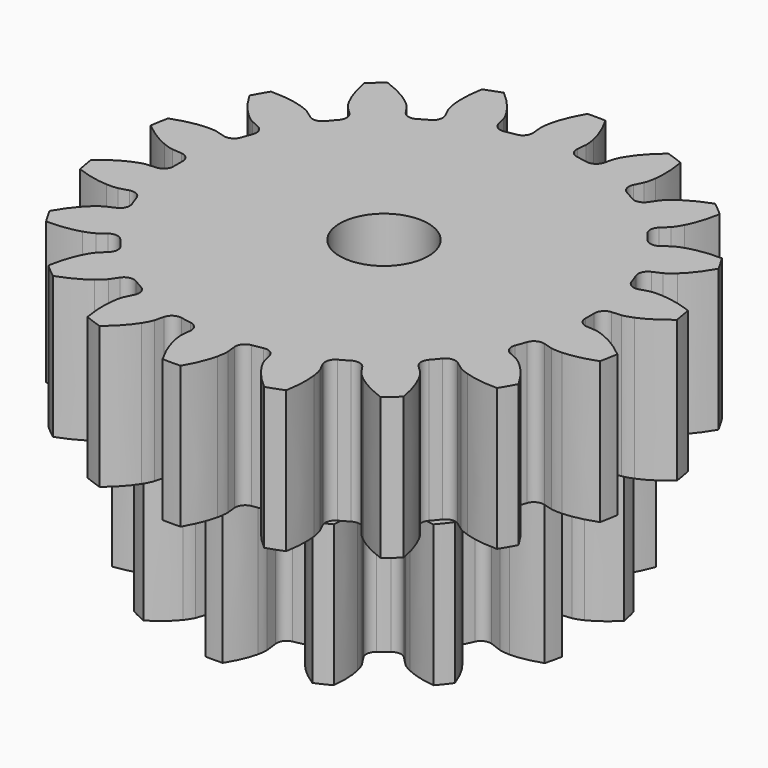
from build123d import *

# Parameters (mm, degrees)
PAD039_DEPTH            = 8
PAD040_DEPTH            = 8
SKETCH085_R             = 2.5
POCKET012_DEPTH         = 16.001
BODY019_PLACEMENT_ANGLE = 90


with BuildPart() as part:
    # Sketch083 → Pad039 (new body)
    with BuildSketch(Plane.XY):
        with BuildLine():
            Line((12.111023, -1.241717), (12.645761, -1.295402))
            add(Edge.make_bspline(
                [(12.645761, -1.295402), (12.714302, -1.298033), (12.920518, -1.29727), (13.264938, -1.221824)],
                knots=[0, 0, 0, 0, 1, 1, 1, 1], degree=3))
            add(Edge.make_bspline(
                [(13.264938, -1.221824), (13.676607, -1.130119), (14.26795, -0.932555), (14.993012, -0.510488)],
                knots=[0, 0, 0, 0, 1, 1, 1, 1], degree=3))
            ThreePointArc((14.993012, -0.510488), (15.001701, 0), (14.993012, 0.510488))
            add(Edge.make_bspline(
                [(14.993012, 0.510488), (14.26795, 0.932555), (13.676607, 1.130119), (13.264938, 1.221824)],
                knots=[0, 0, 0, 0, 1, 1, 1, 1], degree=3))
            add(Edge.make_bspline(
                [(13.264938, 1.221824), (12.920518, 1.29727), (12.714302, 1.298033), (12.645761, 1.295402)],
                knots=[0, 0, 0, 0, 1, 1, 1, 1], degree=3))
            Line((12.645761, 1.295402), (12.111023, 1.241717))
            ThreePointArc((12.111023, 1.241717), (11.708936, 1.356787), (11.497414, 1.717583))
            ThreePointArc((11.497414, 1.717583), (11.44839, 2.01866), (11.391483, 2.318347))
            ThreePointArc((11.391483, 2.318347), (11.46685, 2.729729), (11.805332, 2.975381))
            Line((11.805332, 2.975381), (12.326182, 3.107825))
            add(Edge.make_bspline(
                [(12.326182, 3.107825), (12.391489, 3.128796), (12.585008, 3.200042), (12.882853, 3.388737)],
                knots=[0, 0, 0, 0, 1, 1, 1, 1], degree=3))
            add(Edge.make_bspline(
                [(12.882853, 3.388737), (13.238331, 3.615711), (13.72644, 4.003611), (14.26342, 4.64821)],
                knots=[0, 0, 0, 0, 1, 1, 1, 1], degree=3))
            ThreePointArc((14.26342, 4.64821), (14.096988, 5.130884), (13.914226, 5.607614))
            add(Edge.make_bspline(
                [(13.914226, 5.607614), (13.088535, 5.756242), (12.465284, 5.73964), (12.047076, 5.685015)],
                knots=[0, 0, 0, 0, 1, 1, 1, 1], degree=3))
            add(Edge.make_bspline(
                [(12.047076, 5.685015), (11.697623, 5.638113), (11.503582, 5.568299), (11.440074, 5.542385)],
                knots=[0, 0, 0, 0, 1, 1, 1, 1], degree=3))
            Line((11.440074, 5.542385), (10.955947, 5.309046))
            ThreePointArc((10.955947, 5.309046), (10.538753, 5.279655), (10.216587, 5.546347))
            ThreePointArc((10.216587, 5.546347), (10.067545, 5.8125), (9.911571, 6.074651))
            ThreePointArc((9.911571, 6.074651), (9.841692, 6.487), (10.075743, 6.833605))
            Line((10.075743, 6.833605), (10.519883, 7.136202))
            add(Edge.make_bspline(
                [(10.519883, 7.136202), (10.57408, 7.178245), (10.73156, 7.311383), (10.946905, 7.590566)],
                knots=[0, 0, 0, 0, 1, 1, 1, 1], degree=3))
            add(Edge.make_bspline(
                [(10.946905, 7.590566), (11.203316, 7.925433), (11.529319, 8.456883), (11.813449, 9.246266)],
                knots=[0, 0, 0, 0, 1, 1, 1, 1], degree=3))
            ThreePointArc((11.813449, 9.246266), (11.49197, 9.642908), (11.157178, 10.028379))
            add(Edge.make_bspline(
                [(11.157178, 10.028379), (10.330449, 9.885641), (9.750463, 9.656875), (9.376159, 9.462509)],
                knots=[0, 0, 0, 0, 1, 1, 1, 1], degree=3))
            add(Edge.make_bspline(
                [(9.376159, 9.462509), (9.063822, 9.298916), (8.905361, 9.166947), (8.854546, 9.120874)],
                knots=[0, 0, 0, 0, 1, 1, 1, 1], degree=3))
            Line((8.854546, 9.120874), (8.479422, 8.736026))
            ThreePointArc((8.479422, 8.736026), (8.09744, 8.565718), (7.703489, 8.70614))
            ThreePointArc((7.703489, 8.70614), (7.472406, 8.905267), (7.236177, 9.098261))
            ThreePointArc((7.236177, 9.098261), (7.02948, 9.461843), (7.13087, 9.867595))
            Line((7.13087, 9.867595), (7.444732, 10.303849))
            add(Edge.make_bspline(
                [(7.444732, 10.303849), (7.48128, 10.361892), (7.583728, 10.540862), (7.690599, 10.876861)],
                knots=[0, 0, 0, 0, 1, 1, 1, 1], degree=3))
            add(Edge.make_bspline(
                [(7.690599, 10.876861), (7.817015, 11.27923), (7.941592, 11.89013), (7.938602, 12.729085)],
                knots=[0, 0, 0, 0, 1, 1, 1, 1], degree=3))
            ThreePointArc((7.938602, 12.729085), (7.500851, 12.991854), (7.05441, 13.239573))
            add(Edge.make_bspline(
                [(7.05441, 13.239573), (6.326359, 12.822685), (5.859592, 12.409349), (5.574338, 12.098685)],
                knots=[0, 0, 0, 0, 1, 1, 1, 1], degree=3))
            add(Edge.make_bspline(
                [(5.574338, 12.098685), (5.33679, 11.838132), (5.233022, 11.659925), (5.201029, 11.599251)],
                knots=[0, 0, 0, 0, 1, 1, 1, 1], degree=3))
            Line((5.201029, 11.599251), (4.980153, 11.109313))
            ThreePointArc((4.980153, 11.109313), (4.679456, 10.81863), (4.261237, 10.815844))
            ThreePointArc((4.261237, 10.815844), (3.975984, 10.923927), (3.687994, 11.024488))
            ThreePointArc((3.687994, 11.024488), (3.36941, 11.295448), (3.32591, 11.711408))
            Line((3.32591, 11.711408), (3.471636, 12.228699))
            add(Edge.make_bspline(
                [(3.471636, 12.228699), (3.486128, 12.295742), (3.521186, 12.498958), (3.506694, 12.851246)],
                knots=[0, 0, 0, 0, 1, 1, 1, 1], degree=3))
            add(Edge.make_bspline(
                [(3.506694, 12.851246), (3.487868, 13.272586), (3.395991, 13.889252), (3.106242, 14.676589)],
                knots=[0, 0, 0, 0, 1, 1, 1, 1], degree=3))
            ThreePointArc((3.106242, 14.676589), (2.605018, 14.773792), (2.100777, 14.85388))
            add(Edge.make_bspline(
                [(2.100777, 14.85388), (1.559216, 14.213125), (1.261968, 13.665072), (1.100171, 13.275581)],
                knots=[0, 0, 0, 0, 1, 1, 1, 1], degree=3))
            add(Edge.make_bspline(
                [(1.100171, 13.275581), (0.966063, 12.949495), (0.929503, 12.746544), (0.920191, 12.678587)],
                knots=[0, 0, 0, 0, 1, 1, 1, 1], degree=3))
            Line((0.920191, 12.678587), (0.880204, 12.142652))
            ThreePointArc((0.880204, 12.142652), (0.697061, 11.766655), (0.305016, 11.620998))
            ThreePointArc((0.305016, 11.620998), (0, 11.625), (-0.305016, 11.620998))
            ThreePointArc((-0.305016, 11.620998), (-0.697061, 11.766655), (-0.880204, 12.142652))
            Line((-0.880204, 12.142652), (-0.920191, 12.678587))
            add(Edge.make_bspline(
                [(-0.920191, 12.678587), (-0.929503, 12.746544), (-0.966063, 12.949495), (-1.100171, 13.275581)],
                knots=[0, 0, 0, 0, 1, 1, 1, 1], degree=3))
            add(Edge.make_bspline(
                [(-1.100171, 13.275581), (-1.261968, 13.665072), (-1.559216, 14.213125), (-2.100777, 14.85388)],
                knots=[0, 0, 0, 0, 1, 1, 1, 1], degree=3))
            ThreePointArc((-2.100777, 14.85388), (-2.605018, 14.773792), (-3.106242, 14.676589))
            add(Edge.make_bspline(
                [(-3.106242, 14.676589), (-3.395991, 13.889252), (-3.487868, 13.272586), (-3.506694, 12.851246)],
                knots=[0, 0, 0, 0, 1, 1, 1, 1], degree=3))
            add(Edge.make_bspline(
                [(-3.506694, 12.851246), (-3.521186, 12.498958), (-3.486128, 12.295742), (-3.471636, 12.228699)],
                knots=[0, 0, 0, 0, 1, 1, 1, 1], degree=3))
            Line((-3.471636, 12.228699), (-3.32591, 11.711408))
            ThreePointArc((-3.32591, 11.711408), (-3.36941, 11.295448), (-3.687994, 11.024488))
            ThreePointArc((-3.687994, 11.024488), (-3.975984, 10.923927), (-4.261237, 10.815844))
            ThreePointArc((-4.261237, 10.815844), (-4.679456, 10.81863), (-4.980153, 11.109313))
            Line((-4.980153, 11.109313), (-5.201029, 11.599251))
            add(Edge.make_bspline(
                [(-5.201029, 11.599251), (-5.233022, 11.659925), (-5.33679, 11.838132), (-5.574338, 12.098685)],
                knots=[0, 0, 0, 0, 1, 1, 1, 1], degree=3))
            add(Edge.make_bspline(
                [(-5.574338, 12.098685), (-5.859592, 12.409349), (-6.326359, 12.822685), (-7.05441, 13.239573)],
                knots=[0, 0, 0, 0, 1, 1, 1, 1], degree=3))
            ThreePointArc((-7.05441, 13.239573), (-7.500851, 12.991854), (-7.938602, 12.729085))
            add(Edge.make_bspline(
                [(-7.938602, 12.729085), (-7.941592, 11.89013), (-7.817015, 11.27923), (-7.690599, 10.876861)],
                knots=[0, 0, 0, 0, 1, 1, 1, 1], degree=3))
            add(Edge.make_bspline(
                [(-7.690599, 10.876861), (-7.583728, 10.540862), (-7.48128, 10.361892), (-7.444732, 10.303849)],
                knots=[0, 0, 0, 0, 1, 1, 1, 1], degree=3))
            Line((-7.444732, 10.303849), (-7.13087, 9.867595))
            ThreePointArc((-7.13087, 9.867595), (-7.02948, 9.461843), (-7.236177, 9.098261))
            ThreePointArc((-7.236177, 9.098261), (-7.472406, 8.905267), (-7.703489, 8.70614))
            ThreePointArc((-7.703489, 8.70614), (-8.09744, 8.565718), (-8.479422, 8.736026))
            Line((-8.479422, 8.736026), (-8.854546, 9.120874))
            add(Edge.make_bspline(
                [(-8.854546, 9.120874), (-8.905361, 9.166947), (-9.063822, 9.298916), (-9.376159, 9.462509)],
                knots=[0, 0, 0, 0, 1, 1, 1, 1], degree=3))
            add(Edge.make_bspline(
                [(-9.376159, 9.462509), (-9.750463, 9.656875), (-10.330449, 9.885641), (-11.157178, 10.028379)],
                knots=[0, 0, 0, 0, 1, 1, 1, 1], degree=3))
            ThreePointArc((-11.157178, 10.028379), (-11.49197, 9.642908), (-11.813449, 9.246266))
            add(Edge.make_bspline(
                [(-11.813449, 9.246266), (-11.529319, 8.456883), (-11.203316, 7.925433), (-10.946905, 7.590566)],
                knots=[0, 0, 0, 0, 1, 1, 1, 1], degree=3))
            add(Edge.make_bspline(
                [(-10.946905, 7.590566), (-10.73156, 7.311383), (-10.57408, 7.178245), (-10.519883, 7.136202)],
                knots=[0, 0, 0, 0, 1, 1, 1, 1], degree=3))
            Line((-10.519883, 7.136202), (-10.075743, 6.833605))
            ThreePointArc((-10.075743, 6.833605), (-9.841692, 6.487), (-9.911571, 6.074651))
            ThreePointArc((-9.911571, 6.074651), (-10.067545, 5.8125), (-10.216587, 5.546347))
            ThreePointArc((-10.216587, 5.546347), (-10.538753, 5.279655), (-10.955947, 5.309046))
            Line((-10.955947, 5.309046), (-11.440074, 5.542385))
            add(Edge.make_bspline(
                [(-11.440074, 5.542385), (-11.503582, 5.568299), (-11.697623, 5.638113), (-12.047076, 5.685015)],
                knots=[0, 0, 0, 0, 1, 1, 1, 1], degree=3))
            add(Edge.make_bspline(
                [(-12.047076, 5.685015), (-12.465284, 5.73964), (-13.088535, 5.756242), (-13.914226, 5.607614)],
                knots=[0, 0, 0, 0, 1, 1, 1, 1], degree=3))
            ThreePointArc((-13.914226, 5.607614), (-14.096988, 5.130884), (-14.26342, 4.64821))
            add(Edge.make_bspline(
                [(-14.26342, 4.64821), (-13.72644, 4.003611), (-13.238331, 3.615711), (-12.882853, 3.388737)],
                knots=[0, 0, 0, 0, 1, 1, 1, 1], degree=3))
            add(Edge.make_bspline(
                [(-12.882853, 3.388737), (-12.585008, 3.200042), (-12.391489, 3.128796), (-12.326182, 3.107825)],
                knots=[0, 0, 0, 0, 1, 1, 1, 1], degree=3))
            Line((-12.326182, 3.107825), (-11.805332, 2.975381))
            ThreePointArc((-11.805332, 2.975381), (-11.46685, 2.729729), (-11.391483, 2.318347))
            ThreePointArc((-11.391483, 2.318347), (-11.44839, 2.01866), (-11.497414, 1.717583))
            ThreePointArc((-11.497414, 1.717583), (-11.708936, 1.356787), (-12.111023, 1.241717))
            Line((-12.111023, 1.241717), (-12.645761, 1.295402))
            add(Edge.make_bspline(
                [(-12.645761, 1.295402), (-12.714302, 1.298033), (-12.920518, 1.29727), (-13.264938, 1.221824)],
                knots=[0, 0, 0, 0, 1, 1, 1, 1], degree=3))
            add(Edge.make_bspline(
                [(-13.264938, 1.221824), (-13.676607, 1.130119), (-14.26795, 0.932555), (-14.993012, 0.510488)],
                knots=[0, 0, 0, 0, 1, 1, 1, 1], degree=3))
            ThreePointArc((-14.993012, 0.510488), (-15.001701, 0), (-14.993012, -0.510488))
            add(Edge.make_bspline(
                [(-14.993012, -0.510488), (-14.26795, -0.932555), (-13.676607, -1.130119), (-13.264938, -1.221824)],
                knots=[0, 0, 0, 0, 1, 1, 1, 1], degree=3))
            add(Edge.make_bspline(
                [(-13.264938, -1.221824), (-12.920518, -1.29727), (-12.714302, -1.298033), (-12.645761, -1.295402)],
                knots=[0, 0, 0, 0, 1, 1, 1, 1], degree=3))
            Line((-12.645761, -1.295402), (-12.111023, -1.241717))
            ThreePointArc((-12.111023, -1.241717), (-11.708936, -1.356787), (-11.497414, -1.717583))
            ThreePointArc((-11.497414, -1.717583), (-11.44839, -2.01866), (-11.391483, -2.318347))
            ThreePointArc((-11.391483, -2.318347), (-11.46685, -2.729729), (-11.805332, -2.975381))
            Line((-11.805332, -2.975381), (-12.326182, -3.107825))
            add(Edge.make_bspline(
                [(-12.326182, -3.107825), (-12.391489, -3.128796), (-12.585008, -3.200042), (-12.882853, -3.388737)],
                knots=[0, 0, 0, 0, 1, 1, 1, 1], degree=3))
            add(Edge.make_bspline(
                [(-12.882853, -3.388737), (-13.238331, -3.615711), (-13.72644, -4.003611), (-14.26342, -4.64821)],
                knots=[0, 0, 0, 0, 1, 1, 1, 1], degree=3))
            ThreePointArc((-14.26342, -4.64821), (-14.096988, -5.130884), (-13.914226, -5.607614))
            add(Edge.make_bspline(
                [(-13.914226, -5.607614), (-13.088535, -5.756242), (-12.465284, -5.73964), (-12.047076, -5.685015)],
                knots=[0, 0, 0, 0, 1, 1, 1, 1], degree=3))
            add(Edge.make_bspline(
                [(-12.047076, -5.685015), (-11.697623, -5.638113), (-11.503582, -5.568299), (-11.440074, -5.542385)],
                knots=[0, 0, 0, 0, 1, 1, 1, 1], degree=3))
            Line((-11.440074, -5.542385), (-10.955947, -5.309046))
            ThreePointArc((-10.955947, -5.309046), (-10.538753, -5.279655), (-10.216587, -5.546347))
            ThreePointArc((-10.216587, -5.546347), (-10.067545, -5.8125), (-9.911571, -6.074651))
            ThreePointArc((-9.911571, -6.074651), (-9.841692, -6.487), (-10.075743, -6.833605))
            Line((-10.075743, -6.833605), (-10.519883, -7.136202))
            add(Edge.make_bspline(
                [(-10.519883, -7.136202), (-10.57408, -7.178245), (-10.73156, -7.311383), (-10.946905, -7.590566)],
                knots=[0, 0, 0, 0, 1, 1, 1, 1], degree=3))
            add(Edge.make_bspline(
                [(-10.946905, -7.590566), (-11.203316, -7.925433), (-11.529319, -8.456883), (-11.813449, -9.246266)],
                knots=[0, 0, 0, 0, 1, 1, 1, 1], degree=3))
            ThreePointArc((-11.813449, -9.246266), (-11.49197, -9.642908), (-11.157178, -10.028379))
            add(Edge.make_bspline(
                [(-11.157178, -10.028379), (-10.330449, -9.885641), (-9.750463, -9.656875), (-9.376159, -9.462509)],
                knots=[0, 0, 0, 0, 1, 1, 1, 1], degree=3))
            add(Edge.make_bspline(
                [(-9.376159, -9.462509), (-9.063822, -9.298916), (-8.905361, -9.166947), (-8.854546, -9.120874)],
                knots=[0, 0, 0, 0, 1, 1, 1, 1], degree=3))
            Line((-8.854546, -9.120874), (-8.479422, -8.736026))
            ThreePointArc((-8.479422, -8.736026), (-8.09744, -8.565718), (-7.703489, -8.70614))
            ThreePointArc((-7.703489, -8.70614), (-7.472406, -8.905267), (-7.236177, -9.098261))
            ThreePointArc((-7.236177, -9.098261), (-7.02948, -9.461843), (-7.13087, -9.867595))
            Line((-7.13087, -9.867595), (-7.444732, -10.303849))
            add(Edge.make_bspline(
                [(-7.444732, -10.303849), (-7.48128, -10.361892), (-7.583728, -10.540862), (-7.690599, -10.876861)],
                knots=[0, 0, 0, 0, 1, 1, 1, 1], degree=3))
            add(Edge.make_bspline(
                [(-7.690599, -10.876861), (-7.817015, -11.27923), (-7.941592, -11.89013), (-7.938602, -12.729085)],
                knots=[0, 0, 0, 0, 1, 1, 1, 1], degree=3))
            ThreePointArc((-7.938602, -12.729085), (-7.500851, -12.991854), (-7.05441, -13.239573))
            add(Edge.make_bspline(
                [(-7.05441, -13.239573), (-6.326359, -12.822685), (-5.859592, -12.409349), (-5.574338, -12.098685)],
                knots=[0, 0, 0, 0, 1, 1, 1, 1], degree=3))
            add(Edge.make_bspline(
                [(-5.574338, -12.098685), (-5.33679, -11.838132), (-5.233022, -11.659925), (-5.201029, -11.599251)],
                knots=[0, 0, 0, 0, 1, 1, 1, 1], degree=3))
            Line((-5.201029, -11.599251), (-4.980153, -11.109313))
            ThreePointArc((-4.980153, -11.109313), (-4.679456, -10.81863), (-4.261237, -10.815844))
            ThreePointArc((-4.261237, -10.815844), (-3.975984, -10.923927), (-3.687994, -11.024488))
            ThreePointArc((-3.687994, -11.024488), (-3.36941, -11.295448), (-3.32591, -11.711408))
            Line((-3.32591, -11.711408), (-3.471636, -12.228699))
            add(Edge.make_bspline(
                [(-3.471636, -12.228699), (-3.486128, -12.295742), (-3.521186, -12.498958), (-3.506694, -12.851246)],
                knots=[0, 0, 0, 0, 1, 1, 1, 1], degree=3))
            add(Edge.make_bspline(
                [(-3.506694, -12.851246), (-3.487868, -13.272586), (-3.395991, -13.889252), (-3.106242, -14.676589)],
                knots=[0, 0, 0, 0, 1, 1, 1, 1], degree=3))
            ThreePointArc((-3.106242, -14.676589), (-2.605018, -14.773792), (-2.100777, -14.85388))
            add(Edge.make_bspline(
                [(-2.100777, -14.85388), (-1.559216, -14.213125), (-1.261968, -13.665072), (-1.100171, -13.275581)],
                knots=[0, 0, 0, 0, 1, 1, 1, 1], degree=3))
            add(Edge.make_bspline(
                [(-1.100171, -13.275581), (-0.966063, -12.949495), (-0.929503, -12.746544), (-0.920191, -12.678587)],
                knots=[0, 0, 0, 0, 1, 1, 1, 1], degree=3))
            Line((-0.920191, -12.678587), (-0.880204, -12.142652))
            ThreePointArc((-0.880204, -12.142652), (-0.697061, -11.766655), (-0.305016, -11.620998))
            ThreePointArc((-0.305016, -11.620998), (0, -11.625), (0.305016, -11.620998))
            ThreePointArc((0.305016, -11.620998), (0.697061, -11.766655), (0.880204, -12.142652))
            Line((0.880204, -12.142652), (0.920191, -12.678587))
            add(Edge.make_bspline(
                [(0.920191, -12.678587), (0.929503, -12.746544), (0.966063, -12.949495), (1.100171, -13.275581)],
                knots=[0, 0, 0, 0, 1, 1, 1, 1], degree=3))
            add(Edge.make_bspline(
                [(1.100171, -13.275581), (1.261968, -13.665072), (1.559216, -14.213125), (2.100777, -14.85388)],
                knots=[0, 0, 0, 0, 1, 1, 1, 1], degree=3))
            ThreePointArc((2.100777, -14.85388), (2.605018, -14.773792), (3.106242, -14.676589))
            add(Edge.make_bspline(
                [(3.106242, -14.676589), (3.395991, -13.889252), (3.487868, -13.272586), (3.506694, -12.851246)],
                knots=[0, 0, 0, 0, 1, 1, 1, 1], degree=3))
            add(Edge.make_bspline(
                [(3.506694, -12.851246), (3.521186, -12.498958), (3.486128, -12.295742), (3.471636, -12.228699)],
                knots=[0, 0, 0, 0, 1, 1, 1, 1], degree=3))
            Line((3.471636, -12.228699), (3.32591, -11.711408))
            ThreePointArc((3.32591, -11.711408), (3.36941, -11.295448), (3.687994, -11.024488))
            ThreePointArc((3.687994, -11.024488), (3.975984, -10.923927), (4.261237, -10.815844))
            ThreePointArc((4.261237, -10.815844), (4.679456, -10.81863), (4.980153, -11.109313))
            Line((4.980153, -11.109313), (5.201029, -11.599251))
            add(Edge.make_bspline(
                [(5.201029, -11.599251), (5.233022, -11.659925), (5.33679, -11.838132), (5.574338, -12.098685)],
                knots=[0, 0, 0, 0, 1, 1, 1, 1], degree=3))
            add(Edge.make_bspline(
                [(5.574338, -12.098685), (5.859592, -12.409349), (6.326359, -12.822685), (7.05441, -13.239573)],
                knots=[0, 0, 0, 0, 1, 1, 1, 1], degree=3))
            ThreePointArc((7.05441, -13.239573), (7.500851, -12.991854), (7.938602, -12.729085))
            add(Edge.make_bspline(
                [(7.938602, -12.729085), (7.941592, -11.89013), (7.817015, -11.27923), (7.690599, -10.876861)],
                knots=[0, 0, 0, 0, 1, 1, 1, 1], degree=3))
            add(Edge.make_bspline(
                [(7.690599, -10.876861), (7.583728, -10.540862), (7.48128, -10.361892), (7.444732, -10.303849)],
                knots=[0, 0, 0, 0, 1, 1, 1, 1], degree=3))
            Line((7.444732, -10.303849), (7.13087, -9.867595))
            ThreePointArc((7.13087, -9.867595), (7.02948, -9.461843), (7.236177, -9.098261))
            ThreePointArc((7.236177, -9.098261), (7.472406, -8.905267), (7.703489, -8.70614))
            ThreePointArc((7.703489, -8.70614), (8.09744, -8.565718), (8.479422, -8.736026))
            Line((8.479422, -8.736026), (8.854546, -9.120874))
            add(Edge.make_bspline(
                [(8.854546, -9.120874), (8.905361, -9.166947), (9.063822, -9.298916), (9.376159, -9.462509)],
                knots=[0, 0, 0, 0, 1, 1, 1, 1], degree=3))
            add(Edge.make_bspline(
                [(9.376159, -9.462509), (9.750463, -9.656875), (10.330449, -9.885641), (11.157178, -10.028379)],
                knots=[0, 0, 0, 0, 1, 1, 1, 1], degree=3))
            ThreePointArc((11.157178, -10.028379), (11.49197, -9.642908), (11.813449, -9.246266))
            add(Edge.make_bspline(
                [(11.813449, -9.246266), (11.529319, -8.456883), (11.203316, -7.925433), (10.946905, -7.590566)],
                knots=[0, 0, 0, 0, 1, 1, 1, 1], degree=3))
            add(Edge.make_bspline(
                [(10.946905, -7.590566), (10.73156, -7.311383), (10.57408, -7.178245), (10.519883, -7.136202)],
                knots=[0, 0, 0, 0, 1, 1, 1, 1], degree=3))
            Line((10.519883, -7.136202), (10.075743, -6.833605))
            ThreePointArc((10.075743, -6.833605), (9.841692, -6.487), (9.911571, -6.074651))
            ThreePointArc((9.911571, -6.074651), (10.067545, -5.8125), (10.216587, -5.546347))
            ThreePointArc((10.216587, -5.546347), (10.538753, -5.279655), (10.955947, -5.309046))
            Line((10.955947, -5.309046), (11.440074, -5.542385))
            add(Edge.make_bspline(
                [(11.440074, -5.542385), (11.503582, -5.568299), (11.697623, -5.638113), (12.047076, -5.685015)],
                knots=[0, 0, 0, 0, 1, 1, 1, 1], degree=3))
            add(Edge.make_bspline(
                [(12.047076, -5.685015), (12.465284, -5.73964), (13.088535, -5.756242), (13.914226, -5.607614)],
                knots=[0, 0, 0, 0, 1, 1, 1, 1], degree=3))
            ThreePointArc((13.914226, -5.607614), (14.096988, -5.130884), (14.26342, -4.64821))
            add(Edge.make_bspline(
                [(14.26342, -4.64821), (13.72644, -4.003611), (13.238331, -3.615711), (12.882853, -3.388737)],
                knots=[0, 0, 0, 0, 1, 1, 1, 1], degree=3))
            add(Edge.make_bspline(
                [(12.882853, -3.388737), (12.585008, -3.200042), (12.391489, -3.128796), (12.326182, -3.107825)],
                knots=[0, 0, 0, 0, 1, 1, 1, 1], degree=3))
            Line((12.326182, -3.107825), (11.805332, -2.975381))
            ThreePointArc((11.805332, -2.975381), (11.46685, -2.729729), (11.391483, -2.318347))
            ThreePointArc((11.391483, -2.318347), (11.44839, -2.01866), (11.497414, -1.717583))
            ThreePointArc((11.497414, -1.717583), (11.708936, -1.356787), (12.111023, -1.241717))
        make_face()
    extrude(amount=PAD039_DEPTH)

    # Sketch084 → Pad040 (join)
    with BuildSketch(Plane.XY):
        with BuildLine():
            Line((9.096289, -1.162443), (9.811706, -1.252678))
            add(Edge.make_bspline(
                [(9.811706, -1.252678), (9.87581, -1.256332), (10.068436, -1.258424), (10.391274, -1.185875)],
                knots=[0, 0, 0, 0, 1, 1, 1, 1], degree=3))
            add(Edge.make_bspline(
                [(10.391274, -1.185875), (10.776249, -1.097479), (11.326447, -0.903676), (11.992147, -0.48357)],
                knots=[0, 0, 0, 0, 1, 1, 1, 1], degree=3))
            ThreePointArc((11.992147, -0.48357), (12.001894, 0), (11.992147, 0.48357))
            add(Edge.make_bspline(
                [(11.992147, 0.48357), (11.326447, 0.903676), (10.776249, 1.097479), (10.391274, 1.185875)],
                knots=[0, 0, 0, 0, 1, 1, 1, 1], degree=3))
            add(Edge.make_bspline(
                [(10.391274, 1.185875), (10.068436, 1.258424), (9.87581, 1.256332), (9.811706, 1.252678)],
                knots=[0, 0, 0, 0, 1, 1, 1, 1], degree=3))
            Line((9.811706, 1.252678), (9.096289, 1.162443))
            ThreePointArc((9.096289, 1.162443), (8.695055, 1.264826), (8.47262, 1.614103))
            ThreePointArc((8.47262, 1.614103), (8.408753, 1.919243), (8.3339, 2.221876))
            ThreePointArc((8.3339, 2.221876), (8.382761, 2.633074), (8.699838, 2.899407))
            Line((8.699838, 2.899407), (9.383559, 3.128515))
            add(Edge.make_bspline(
                [(9.383559, 3.128515), (9.442899, 3.153037), (9.617357, 3.23473), (9.876747, 3.440168)],
                knots=[0, 0, 0, 0, 1, 1, 1, 1], degree=3))
            add(Edge.make_bspline(
                [(9.876747, 3.440168), (10.185243, 3.686845), (10.596867, 4.100177), (11.014364, 4.767516)],
                knots=[0, 0, 0, 0, 1, 1, 1, 1], degree=3))
            ThreePointArc((11.014364, 4.767516), (10.813333, 5.207427), (10.594738, 5.638879))
            add(Edge.make_bspline(
                [(10.594738, 5.638879), (9.812686, 5.728546), (9.232886, 5.664434), (8.847683, 5.577042)],
                knots=[0, 0, 0, 0, 1, 1, 1, 1], degree=3))
            add(Edge.make_bspline(
                [(8.847683, 5.577042), (8.525338, 5.502331), (8.352695, 5.416869), (8.296525, 5.385764)],
                knots=[0, 0, 0, 0, 1, 1, 1, 1], degree=3))
            Line((8.296525, 5.385764), (7.691108, 4.994057))
            ThreePointArc((7.691108, 4.994057), (7.285186, 4.912211), (6.933234, 5.130389))
            ThreePointArc((6.933234, 5.130389), (6.743297, 5.3776), (6.544549, 5.617785))
            ThreePointArc((6.544549, 5.617785), (6.410158, 6.009462), (6.580278, 6.386994))
            Line((6.580278, 6.386994), (7.096882, 6.890069))
            add(Edge.make_bspline(
                [(7.096882, 6.890069), (7.139707, 6.937909), (7.261442, 7.087206), (7.406008, 7.384844)],
                knots=[0, 0, 0, 0, 1, 1, 1, 1], degree=3))
            add(Edge.make_bspline(
                [(7.406008, 7.384844), (7.576925, 7.740943), (7.768447, 8.29194), (7.855052, 9.074337)],
                knots=[0, 0, 0, 0, 1, 1, 1, 1], degree=3))
            ThreePointArc((7.855052, 9.074337), (7.483058, 9.383459), (7.098911, 9.677339))
            add(Edge.make_bspline(
                [(7.098911, 9.677339), (6.355402, 9.418806), (5.860837, 9.109478), (5.551699, 8.863607)],
                knots=[0, 0, 0, 0, 1, 1, 1, 1], degree=3))
            add(Edge.make_bspline(
                [(5.551699, 8.863607), (5.293692, 8.656435), (5.175227, 8.504529), (5.138115, 8.452133)],
                knots=[0, 0, 0, 0, 1, 1, 1, 1], degree=3))
            Line((5.138115, 8.452133), (4.762609, 7.836536))
            ThreePointArc((4.762609, 7.836536), (4.432397, 7.586673), (4.020636, 7.630538))
            ThreePointArc((4.020636, 7.630538), (3.742247, 7.770856), (3.458969, 7.901023))
            ThreePointArc((3.458969, 7.901023), (3.167945, 8.195601), (3.157412, 8.609558))
            Line((3.157412, 8.609558), (3.404581, 9.286959))
            add(Edge.make_bspline(
                [(3.404581, 9.286959), (3.422408, 9.348642), (3.46731, 9.535974), (3.468419, 9.866861)],
                knots=[0, 0, 0, 0, 1, 1, 1, 1], degree=3))
            add(Edge.make_bspline(
                [(3.468419, 9.866861), (3.467904, 10.261854), (3.401391, 10.841383), (3.13995, 11.583874)],
                knots=[0, 0, 0, 0, 1, 1, 1, 1], degree=3))
            ThreePointArc((3.13995, 11.583874), (2.670673, 11.700981), (2.197058, 11.799083))
            add(Edge.make_bspline(
                [(2.197058, 11.799083), (1.639352, 11.243557), (1.327978, 10.750278), (1.156133, 10.394626)],
                knots=[0, 0, 0, 0, 1, 1, 1, 1], degree=3))
            add(Edge.make_bspline(
                [(1.156133, 10.394626), (1.013565, 10.096025), (0.972741, 9.907763), (0.962039, 9.844453)],
                knots=[0, 0, 0, 0, 1, 1, 1, 1], degree=3))
            Line((0.962039, 9.844453), (0.890817, 9.126894))
            ThreePointArc((0.890817, 9.126894), (0.701718, 8.758502), (0.311702, 8.619366))
            ThreePointArc((0.311702, 8.619366), (0, 8.625), (-0.311702, 8.619366))
            ThreePointArc((-0.311702, 8.619366), (-0.701718, 8.758502), (-0.890817, 9.126894))
            Line((-0.890817, 9.126894), (-0.962039, 9.844453))
            add(Edge.make_bspline(
                [(-0.962039, 9.844453), (-0.972741, 9.907763), (-1.013565, 10.096025), (-1.156133, 10.394626)],
                knots=[0, 0, 0, 0, 1, 1, 1, 1], degree=3))
            add(Edge.make_bspline(
                [(-1.156133, 10.394626), (-1.327978, 10.750278), (-1.639352, 11.243557), (-2.197058, 11.799083)],
                knots=[0, 0, 0, 0, 1, 1, 1, 1], degree=3))
            ThreePointArc((-2.197058, 11.799083), (-2.670673, 11.700981), (-3.13995, 11.583874))
            add(Edge.make_bspline(
                [(-3.13995, 11.583874), (-3.401391, 10.841383), (-3.467904, 10.261854), (-3.468419, 9.866861)],
                knots=[0, 0, 0, 0, 1, 1, 1, 1], degree=3))
            add(Edge.make_bspline(
                [(-3.468419, 9.866861), (-3.46731, 9.535974), (-3.422408, 9.348642), (-3.404581, 9.286959)],
                knots=[0, 0, 0, 0, 1, 1, 1, 1], degree=3))
            Line((-3.404581, 9.286959), (-3.157412, 8.609558))
            ThreePointArc((-3.157412, 8.609558), (-3.167945, 8.195601), (-3.458969, 7.901023))
            ThreePointArc((-3.458969, 7.901023), (-3.742247, 7.770856), (-4.020636, 7.630538))
            ThreePointArc((-4.020636, 7.630538), (-4.432397, 7.586673), (-4.762609, 7.836536))
            Line((-4.762609, 7.836536), (-5.138115, 8.452133))
            add(Edge.make_bspline(
                [(-5.138115, 8.452133), (-5.175227, 8.504529), (-5.293692, 8.656435), (-5.551699, 8.863607)],
                knots=[0, 0, 0, 0, 1, 1, 1, 1], degree=3))
            add(Edge.make_bspline(
                [(-5.551699, 8.863607), (-5.860837, 9.109478), (-6.355402, 9.418806), (-7.098911, 9.677339)],
                knots=[0, 0, 0, 0, 1, 1, 1, 1], degree=3))
            ThreePointArc((-7.098911, 9.677339), (-7.483058, 9.383459), (-7.855052, 9.074337))
            add(Edge.make_bspline(
                [(-7.855052, 9.074337), (-7.768447, 8.29194), (-7.576925, 7.740943), (-7.406008, 7.384844)],
                knots=[0, 0, 0, 0, 1, 1, 1, 1], degree=3))
            add(Edge.make_bspline(
                [(-7.406008, 7.384844), (-7.261442, 7.087206), (-7.139707, 6.937909), (-7.096882, 6.890069)],
                knots=[0, 0, 0, 0, 1, 1, 1, 1], degree=3))
            Line((-7.096882, 6.890069), (-6.580278, 6.386994))
            ThreePointArc((-6.580278, 6.386994), (-6.410158, 6.009462), (-6.544549, 5.617785))
            ThreePointArc((-6.544549, 5.617785), (-6.743297, 5.3776), (-6.933234, 5.130389))
            ThreePointArc((-6.933234, 5.130389), (-7.285186, 4.912211), (-7.691108, 4.994057))
            Line((-7.691108, 4.994057), (-8.296525, 5.385764))
            add(Edge.make_bspline(
                [(-8.296525, 5.385764), (-8.352695, 5.416869), (-8.525338, 5.502331), (-8.847683, 5.577042)],
                knots=[0, 0, 0, 0, 1, 1, 1, 1], degree=3))
            add(Edge.make_bspline(
                [(-8.847683, 5.577042), (-9.232886, 5.664434), (-9.812686, 5.728546), (-10.594738, 5.638879)],
                knots=[0, 0, 0, 0, 1, 1, 1, 1], degree=3))
            ThreePointArc((-10.594738, 5.638879), (-10.813333, 5.207427), (-11.014364, 4.767516))
            add(Edge.make_bspline(
                [(-11.014364, 4.767516), (-10.596867, 4.100177), (-10.185243, 3.686845), (-9.876747, 3.440168)],
                knots=[0, 0, 0, 0, 1, 1, 1, 1], degree=3))
            add(Edge.make_bspline(
                [(-9.876747, 3.440168), (-9.617357, 3.23473), (-9.442899, 3.153037), (-9.383559, 3.128515)],
                knots=[0, 0, 0, 0, 1, 1, 1, 1], degree=3))
            Line((-9.383559, 3.128515), (-8.699838, 2.899407))
            ThreePointArc((-8.699838, 2.899407), (-8.382761, 2.633074), (-8.3339, 2.221876))
            ThreePointArc((-8.3339, 2.221876), (-8.408753, 1.919243), (-8.47262, 1.614103))
            ThreePointArc((-8.47262, 1.614103), (-8.695055, 1.264826), (-9.096289, 1.162443))
            Line((-9.096289, 1.162443), (-9.811706, 1.252678))
            add(Edge.make_bspline(
                [(-9.811706, 1.252678), (-9.87581, 1.256332), (-10.068436, 1.258424), (-10.391274, 1.185875)],
                knots=[0, 0, 0, 0, 1, 1, 1, 1], degree=3))
            add(Edge.make_bspline(
                [(-10.391274, 1.185875), (-10.776249, 1.097479), (-11.326447, 0.903676), (-11.992147, 0.48357)],
                knots=[0, 0, 0, 0, 1, 1, 1, 1], degree=3))
            ThreePointArc((-11.992147, 0.48357), (-12.001894, 0), (-11.992147, -0.48357))
            add(Edge.make_bspline(
                [(-11.992147, -0.48357), (-11.326447, -0.903676), (-10.776249, -1.097479), (-10.391274, -1.185875)],
                knots=[0, 0, 0, 0, 1, 1, 1, 1], degree=3))
            add(Edge.make_bspline(
                [(-10.391274, -1.185875), (-10.068436, -1.258424), (-9.87581, -1.256332), (-9.811706, -1.252678)],
                knots=[0, 0, 0, 0, 1, 1, 1, 1], degree=3))
            Line((-9.811706, -1.252678), (-9.096289, -1.162443))
            ThreePointArc((-9.096289, -1.162443), (-8.695055, -1.264826), (-8.47262, -1.614103))
            ThreePointArc((-8.47262, -1.614103), (-8.408753, -1.919243), (-8.3339, -2.221876))
            ThreePointArc((-8.3339, -2.221876), (-8.382761, -2.633074), (-8.699838, -2.899407))
            Line((-8.699838, -2.899407), (-9.383559, -3.128515))
            add(Edge.make_bspline(
                [(-9.383559, -3.128515), (-9.442899, -3.153037), (-9.617357, -3.23473), (-9.876747, -3.440168)],
                knots=[0, 0, 0, 0, 1, 1, 1, 1], degree=3))
            add(Edge.make_bspline(
                [(-9.876747, -3.440168), (-10.185243, -3.686845), (-10.596867, -4.100177), (-11.014364, -4.767516)],
                knots=[0, 0, 0, 0, 1, 1, 1, 1], degree=3))
            ThreePointArc((-11.014364, -4.767516), (-10.813333, -5.207427), (-10.594738, -5.638879))
            add(Edge.make_bspline(
                [(-10.594738, -5.638879), (-9.812686, -5.728546), (-9.232886, -5.664434), (-8.847683, -5.577042)],
                knots=[0, 0, 0, 0, 1, 1, 1, 1], degree=3))
            add(Edge.make_bspline(
                [(-8.847683, -5.577042), (-8.525338, -5.502331), (-8.352695, -5.416869), (-8.296525, -5.385764)],
                knots=[0, 0, 0, 0, 1, 1, 1, 1], degree=3))
            Line((-8.296525, -5.385764), (-7.691108, -4.994057))
            ThreePointArc((-7.691108, -4.994057), (-7.285186, -4.912211), (-6.933234, -5.130389))
            ThreePointArc((-6.933234, -5.130389), (-6.743297, -5.3776), (-6.544549, -5.617785))
            ThreePointArc((-6.544549, -5.617785), (-6.410158, -6.009462), (-6.580278, -6.386994))
            Line((-6.580278, -6.386994), (-7.096882, -6.890069))
            add(Edge.make_bspline(
                [(-7.096882, -6.890069), (-7.139707, -6.937909), (-7.261442, -7.087206), (-7.406008, -7.384844)],
                knots=[0, 0, 0, 0, 1, 1, 1, 1], degree=3))
            add(Edge.make_bspline(
                [(-7.406008, -7.384844), (-7.576925, -7.740943), (-7.768447, -8.29194), (-7.855052, -9.074337)],
                knots=[0, 0, 0, 0, 1, 1, 1, 1], degree=3))
            ThreePointArc((-7.855052, -9.074337), (-7.483058, -9.383459), (-7.098911, -9.677339))
            add(Edge.make_bspline(
                [(-7.098911, -9.677339), (-6.355402, -9.418806), (-5.860837, -9.109478), (-5.551699, -8.863607)],
                knots=[0, 0, 0, 0, 1, 1, 1, 1], degree=3))
            add(Edge.make_bspline(
                [(-5.551699, -8.863607), (-5.293692, -8.656435), (-5.175227, -8.504529), (-5.138115, -8.452133)],
                knots=[0, 0, 0, 0, 1, 1, 1, 1], degree=3))
            Line((-5.138115, -8.452133), (-4.762609, -7.836536))
            ThreePointArc((-4.762609, -7.836536), (-4.432397, -7.586673), (-4.020636, -7.630538))
            ThreePointArc((-4.020636, -7.630538), (-3.742247, -7.770856), (-3.458969, -7.901023))
            ThreePointArc((-3.458969, -7.901023), (-3.167945, -8.195601), (-3.157412, -8.609558))
            Line((-3.157412, -8.609558), (-3.404581, -9.286959))
            add(Edge.make_bspline(
                [(-3.404581, -9.286959), (-3.422408, -9.348642), (-3.46731, -9.535974), (-3.468419, -9.866861)],
                knots=[0, 0, 0, 0, 1, 1, 1, 1], degree=3))
            add(Edge.make_bspline(
                [(-3.468419, -9.866861), (-3.467904, -10.261854), (-3.401391, -10.841383), (-3.13995, -11.583874)],
                knots=[0, 0, 0, 0, 1, 1, 1, 1], degree=3))
            ThreePointArc((-3.13995, -11.583874), (-2.670673, -11.700981), (-2.197058, -11.799083))
            add(Edge.make_bspline(
                [(-2.197058, -11.799083), (-1.639352, -11.243557), (-1.327978, -10.750278), (-1.156133, -10.394626)],
                knots=[0, 0, 0, 0, 1, 1, 1, 1], degree=3))
            add(Edge.make_bspline(
                [(-1.156133, -10.394626), (-1.013565, -10.096025), (-0.972741, -9.907763), (-0.962039, -9.844453)],
                knots=[0, 0, 0, 0, 1, 1, 1, 1], degree=3))
            Line((-0.962039, -9.844453), (-0.890817, -9.126894))
            ThreePointArc((-0.890817, -9.126894), (-0.701718, -8.758502), (-0.311702, -8.619366))
            ThreePointArc((-0.311702, -8.619366), (0, -8.625), (0.311702, -8.619366))
            ThreePointArc((0.311702, -8.619366), (0.701718, -8.758502), (0.890817, -9.126894))
            Line((0.890817, -9.126894), (0.962039, -9.844453))
            add(Edge.make_bspline(
                [(0.962039, -9.844453), (0.972741, -9.907763), (1.013565, -10.096025), (1.156133, -10.394626)],
                knots=[0, 0, 0, 0, 1, 1, 1, 1], degree=3))
            add(Edge.make_bspline(
                [(1.156133, -10.394626), (1.327978, -10.750278), (1.639352, -11.243557), (2.197058, -11.799083)],
                knots=[0, 0, 0, 0, 1, 1, 1, 1], degree=3))
            ThreePointArc((2.197058, -11.799083), (2.670673, -11.700981), (3.13995, -11.583874))
            add(Edge.make_bspline(
                [(3.13995, -11.583874), (3.401391, -10.841383), (3.467904, -10.261854), (3.468419, -9.866861)],
                knots=[0, 0, 0, 0, 1, 1, 1, 1], degree=3))
            add(Edge.make_bspline(
                [(3.468419, -9.866861), (3.46731, -9.535974), (3.422408, -9.348642), (3.404581, -9.286959)],
                knots=[0, 0, 0, 0, 1, 1, 1, 1], degree=3))
            Line((3.404581, -9.286959), (3.157412, -8.609558))
            ThreePointArc((3.157412, -8.609558), (3.167945, -8.195601), (3.458969, -7.901023))
            ThreePointArc((3.458969, -7.901023), (3.742247, -7.770856), (4.020636, -7.630538))
            ThreePointArc((4.020636, -7.630538), (4.432397, -7.586673), (4.762609, -7.836536))
            Line((4.762609, -7.836536), (5.138115, -8.452133))
            add(Edge.make_bspline(
                [(5.138115, -8.452133), (5.175227, -8.504529), (5.293692, -8.656435), (5.551699, -8.863607)],
                knots=[0, 0, 0, 0, 1, 1, 1, 1], degree=3))
            add(Edge.make_bspline(
                [(5.551699, -8.863607), (5.860837, -9.109478), (6.355402, -9.418806), (7.098911, -9.677339)],
                knots=[0, 0, 0, 0, 1, 1, 1, 1], degree=3))
            ThreePointArc((7.098911, -9.677339), (7.483058, -9.383459), (7.855052, -9.074337))
            add(Edge.make_bspline(
                [(7.855052, -9.074337), (7.768447, -8.29194), (7.576925, -7.740943), (7.406008, -7.384844)],
                knots=[0, 0, 0, 0, 1, 1, 1, 1], degree=3))
            add(Edge.make_bspline(
                [(7.406008, -7.384844), (7.261442, -7.087206), (7.139707, -6.937909), (7.096882, -6.890069)],
                knots=[0, 0, 0, 0, 1, 1, 1, 1], degree=3))
            Line((7.096882, -6.890069), (6.580278, -6.386994))
            ThreePointArc((6.580278, -6.386994), (6.410158, -6.009462), (6.544549, -5.617785))
            ThreePointArc((6.544549, -5.617785), (6.743297, -5.3776), (6.933234, -5.130389))
            ThreePointArc((6.933234, -5.130389), (7.285186, -4.912211), (7.691108, -4.994057))
            Line((7.691108, -4.994057), (8.296525, -5.385764))
            add(Edge.make_bspline(
                [(8.296525, -5.385764), (8.352695, -5.416869), (8.525338, -5.502331), (8.847683, -5.577042)],
                knots=[0, 0, 0, 0, 1, 1, 1, 1], degree=3))
            add(Edge.make_bspline(
                [(8.847683, -5.577042), (9.232886, -5.664434), (9.812686, -5.728546), (10.594738, -5.638879)],
                knots=[0, 0, 0, 0, 1, 1, 1, 1], degree=3))
            ThreePointArc((10.594738, -5.638879), (10.813333, -5.207427), (11.014364, -4.767516))
            add(Edge.make_bspline(
                [(11.014364, -4.767516), (10.596867, -4.100177), (10.185243, -3.686845), (9.876747, -3.440168)],
                knots=[0, 0, 0, 0, 1, 1, 1, 1], degree=3))
            add(Edge.make_bspline(
                [(9.876747, -3.440168), (9.617357, -3.23473), (9.442899, -3.153037), (9.383559, -3.128515)],
                knots=[0, 0, 0, 0, 1, 1, 1, 1], degree=3))
            Line((9.383559, -3.128515), (8.699838, -2.899407))
            ThreePointArc((8.699838, -2.899407), (8.382761, -2.633074), (8.3339, -2.221876))
            ThreePointArc((8.3339, -2.221876), (8.408753, -1.919243), (8.47262, -1.614103))
            ThreePointArc((8.47262, -1.614103), (8.695055, -1.264826), (9.096289, -1.162443))
        make_face()
    extrude(amount=-PAD040_DEPTH)

    # Sketch085 (on Face5 of Pad040) → Pocket012 (cut, through all)
    with BuildSketch(Plane.XY.offset(8)):
        Circle(SKETCH085_R)
    extrude(amount=-POCKET012_DEPTH, mode=Mode.SUBTRACT)


with BuildPart() as part_1:
    # Body019 placement: moved
    add(part.part.moved(Location((46.5, 0, 25))).rotate(Axis((46.5, 0, 25), (0, 0, 1)), BODY019_PLACEMENT_ANGLE))


solid = part_1.part
